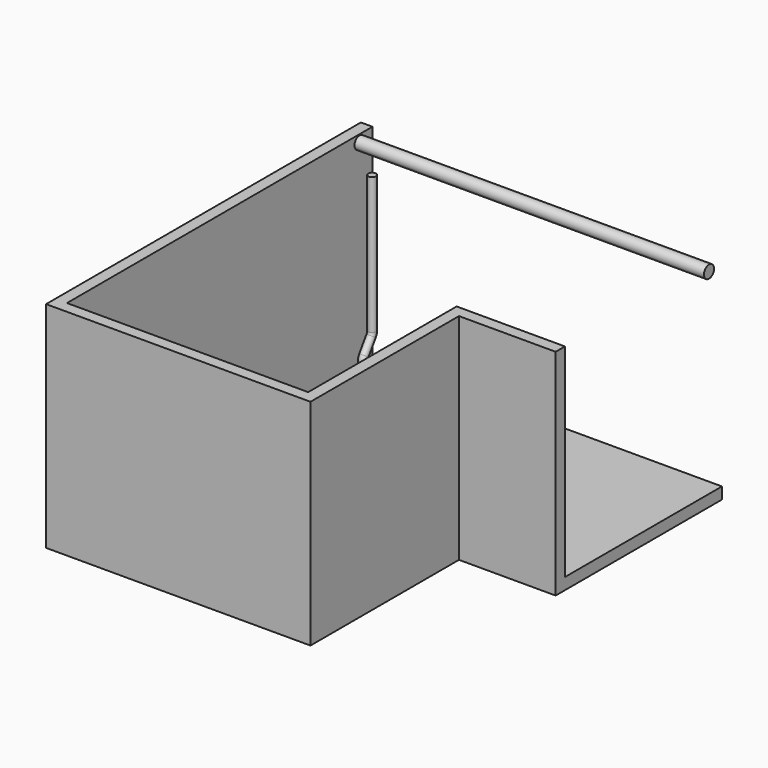
from build123d import *

# Parameters (mm, degrees)
F3_DEPTH  = 152.4
F4_DEPTH  = 6.35
F5_DEPTH  = 152.4
F6_DEPTH  = 2667
F7_DEPTH  = 4584.7
F8_DEPTH  = 152.4
F9_DEPTH  = 152.4
F10_DEPTH = 2667
F11_DEPTH = 152.4
F12_DEPTH = 2438.4
F13_DEPTH = 152.4
F14_DEPTH = 2667


with BuildPart() as f2:
    # F2: sweep along a path in F1
    with BuildLine(Plane.YZ) as f2_path:
        Line((-228.6, 0), (-228.6, 70.8379952064))
        ThreePointArc((-228.6, 70.8379952064), (-224.2405498913, 100.2800647132), (-211.5363099047, 127.1955351429))
        Line((-211.5363099047, 127.1955351429), (-93.2636900953, 304.6044648571))
        ThreePointArc((-93.2636900953, 304.6044648571), (-80.5594501087, 331.5199352868), (-76.2, 360.9620047936))
        Line((-76.2, 360.9620047936), (-76.2, 2159))
    # F0 (on Top) → F2 (sweep)
    with BuildSketch(Plane.XY):
        with BuildLine():
            ThreePointArc((101.6, -228.6), (50.8, -177.8), (0, -228.6))
            ThreePointArc((0, -228.6), (50.8, -279.4), (101.6, -228.6))
        make_face()
    sweep(path=f2_path.line)

    # F0 (on Top) → F3 (join)
    with BuildSketch(Plane.XY):
        Polygon((4584.7, 0), (0, 0), (0, -228.6), (0, -5016.5), (3162.3, -5016.5), (3162.3, -2578.1), (4584.7, -2578.1), align=None)
        with BuildLine():
            ThreePointArc((101.6, -228.6), (50.8, -279.4), (0, -228.6))
            ThreePointArc((0, -228.6), (50.8, -177.8), (101.6, -228.6))
        make_face(mode=Mode.SUBTRACT)
        with BuildLine():
            ThreePointArc((101.6, -228.6), (50.8, -177.8), (0, -228.6))
            ThreePointArc((0, -228.6), (50.8, -279.4), (101.6, -228.6))
        make_face()
    extrude(amount=-F3_DEPTH)

    # F4 (add): a face of the model
    f4_faces = [f2.faces().sort_by_distance(p)[0] for p in [
        (0, -2508.25, -76.2),
    ]]
    extrude(f4_faces, amount=F4_DEPTH)


with BuildPart() as f5:
    # F5 (new): a face of the model
    f5_faces = [f2.part.faces().sort_by_distance(p)[0] for p in [
        (-6.35, -2508.25, -76.2),
    ]]
    extrude(f5_faces, amount=F5_DEPTH)


with BuildPart() as f2_1:
    add(f2.part)

    # F6 (add): a face of the model
    f6_faces = [f5.part.faces().sort_by_distance(p)[0] for p in [
        (-82.55, -2508.25, 0),
    ]]

    add(f5.part)  # F6 merges F5
    extrude(f6_faces, amount=F6_DEPTH)



with BuildPart() as f7:
    # F1 (on Right) → F7 (new body, through all)
    with BuildSketch(Plane.YZ):
        with BuildLine():
            ThreePointArc((-128.9863099047, 2570.4233621877), (-269.7139069473, 2628.9884516383), (-212.0843039048, 2487.8751810898))
            ThreePointArc((-212.0843039048, 2487.8751810898), (-153.3587128622, 2511.8582727371), (-128.9863099047, 2570.4233621877))
        make_face()
    extrude(amount=F7_DEPTH)


with BuildPart() as f2_2:
    add(f2_1.part)

    add(f7.part)  # F8 merges F7
    # F1 (on Right) → F8 (join)
    with BuildSketch(Plane.YZ):
        with BuildLine():
            ThreePointArc((-128.9863099047, 2570.4233621877), (-269.7139069473, 2628.9884516383), (-212.0843039048, 2487.8751810898))
            ThreePointArc((-212.0843039048, 2487.8751810898), (-153.3587128622, 2511.8582727371), (-128.9863099047, 2570.4233621877))
        make_face()
    extrude(amount=-F8_DEPTH)


with BuildPart() as f9:
    # F9 (new): a face of the model
    f9_faces = [f2_2.part.faces().sort_by_distance(p)[0] for p in [
        (1501.775, -5016.5, -108.8358066039),
    ]]
    extrude(f9_faces, amount=F9_DEPTH)


with BuildPart() as f2_3:
    add(f2_2.part)

    # F10 (add, through all): a face of the model
    f10_faces = [f9.part.faces().sort_by_distance(p)[0] for p in [
        (1577.975, -5092.7, 0),
    ]]

    add(f9.part)  # F10 merges F9
    extrude(f10_faces, amount=F10_DEPTH)


with BuildPart() as f11:
    # F11 (new): a face of the model
    f11_faces = [f2_3.part.faces().sort_by_distance(p)[0] for p in [
        (3162.3, -3873.5, -114.1099738835),
    ]]
    extrude(f11_faces, amount=F11_DEPTH)


with BuildPart() as f2_4:
    add(f2_3.part)

    # F12 (add, through all): a face of the model
    f12_faces = [f11.part.faces().sort_by_distance(p)[0] for p in [
        (3238.5, -5016.5, 1333.5),
    ]]

    add(f11.part)  # F12 merges F11
    extrude(f12_faces, amount=F12_DEPTH)


with BuildPart() as f13:
    # F13 (new): a face of the model
    f13_faces = [f2_4.part.faces().sort_by_distance(p)[0] for p in [
        (3949.7, -2578.1, -76.2),
    ]]
    extrude(f13_faces, amount=F13_DEPTH)


with BuildPart() as f2_5:
    add(f2_4.part)

    # F14 (add, through all): a face of the model
    f14_faces = [f13.part.faces().sort_by_distance(p)[0] for p in [
        (3949.7, -2654.3, 0),
    ]]

    add(f13.part)  # F14 merges F13
    extrude(f14_faces, amount=F14_DEPTH)


solid = f2_5.part
